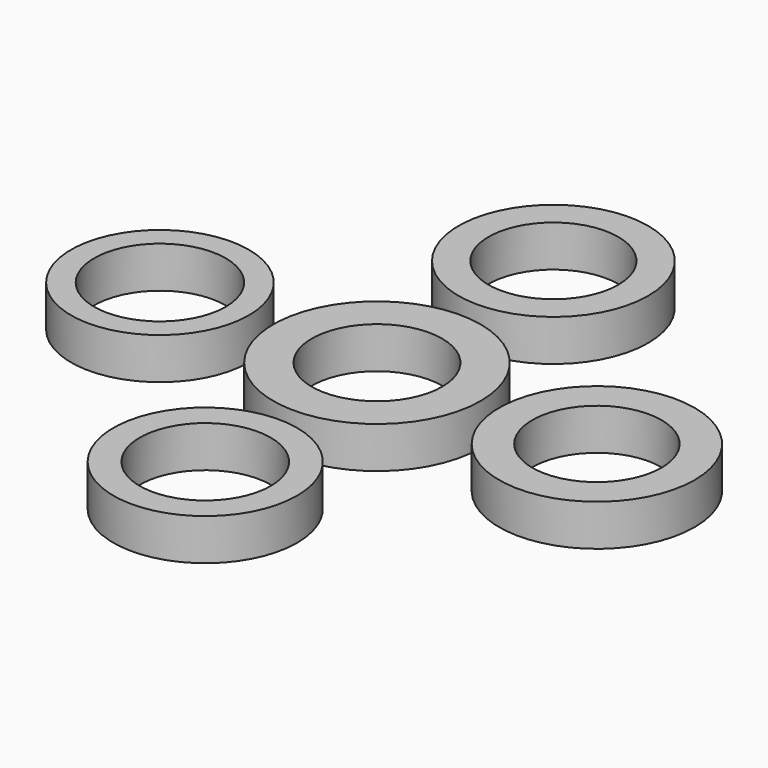
from build123d import *

# Parameters (mm, degrees)
F0_R     = 16
F0_R_2   = 10.95
F0_R_3   = 17.5
F0_R_4   = 11
F0_R_5   = 15
F0_R_6   = 11.1
F0_R_7   = 15.5
F0_R_8   = 11.05
F0_R_9   = 16.5
F0_R_10  = 10.9
F1_DEPTH = 7


with BuildPart() as f1:
    # F0 (on Top) → F1 (new body)
    with BuildSketch(Plane.XY):
        with Locations((0, 37.207809)):
            Circle(F0_R)
        with Locations((0, 37.207809)):
            Circle(F0_R_2, mode=Mode.SUBTRACT)
        Circle(F0_R_3)
        Circle(F0_R_4, mode=Mode.SUBTRACT)
        with Locations((-36.616529, 0)):
            Circle(F0_R_5)
        with Locations((-36.616529, 0)):
            Circle(F0_R_6, mode=Mode.SUBTRACT)
        with Locations((0, -36.215333)):
            Circle(F0_R_7)
        with Locations((0, -36.215333)):
            Circle(F0_R_8, mode=Mode.SUBTRACT)
        with Locations((37.107967, 0)):
            Circle(F0_R_9)
        with Locations((37.107967, 0)):
            Circle(F0_R_10, mode=Mode.SUBTRACT)
    extrude(amount=F1_DEPTH)


solid = f1.part
